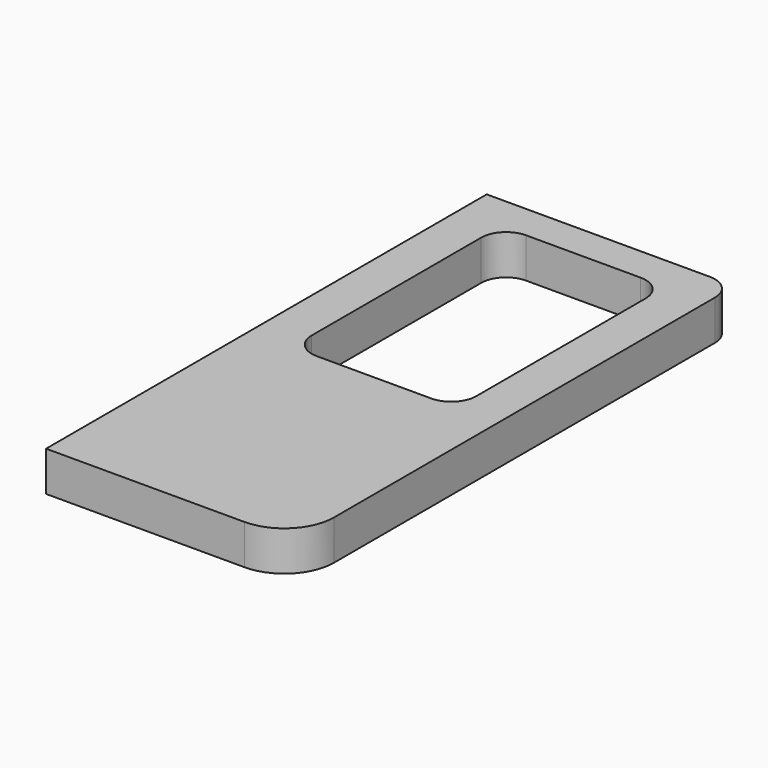
from build123d import *

# Parameters (mm, degrees)
F0_W     = 996
F0_H     = 2210
F1_DEPTH = 160
F2_R     = 100
F3_R     = 200
F5_DEPTH = 160


with BuildPart() as f1:
    # F0 (on Top) → F1 (new body)
    with BuildSketch(Plane.XY):
        with Locations((440.006502, 1048.075508)):
            Rectangle(F0_W, F0_H)
    extrude(amount=F1_DEPTH)

    # F2
    f2_edges = [f1.edges().sort_by_distance(p)[0] for p in [
        (938.006502, 2153.075508, 80),
    ]]
    fillet(f2_edges, radius=F2_R)

    # F3
    f3_edges = [f1.edges().sort_by_distance(p)[0] for p in [
        (938.006502, -56.924492, 80),
    ]]
    fillet(f3_edges, radius=F3_R)

    # F4 (on face) → F5 (cut, through all)
    with BuildSketch(Plane.XY.offset(160)):
        with BuildLine():
            Line((672.006502, 2013.075508), (212.006502, 2013.075508))
            ThreePointArc((212.006502, 2013.075508), (141.295824, 1983.786186), (112.006502, 1913.075508))
            Line((112.006502, 1913.075508), (112.006502, 1063.075508))
            ThreePointArc((112.006502, 1063.075508), (141.295824, 992.36483), (212.006502, 963.075508))
            Line((212.006502, 963.075508), (672.006502, 963.075508))
            ThreePointArc((672.006502, 963.075508), (742.71718, 992.36483), (772.006502, 1063.075508))
            Line((772.006502, 1063.075508), (772.006502, 1913.075508))
            ThreePointArc((772.006502, 1913.075508), (742.71718, 1983.786186), (672.006502, 2013.075508))
        make_face()
    extrude(amount=-F5_DEPTH, mode=Mode.SUBTRACT)


solid = f1.part
